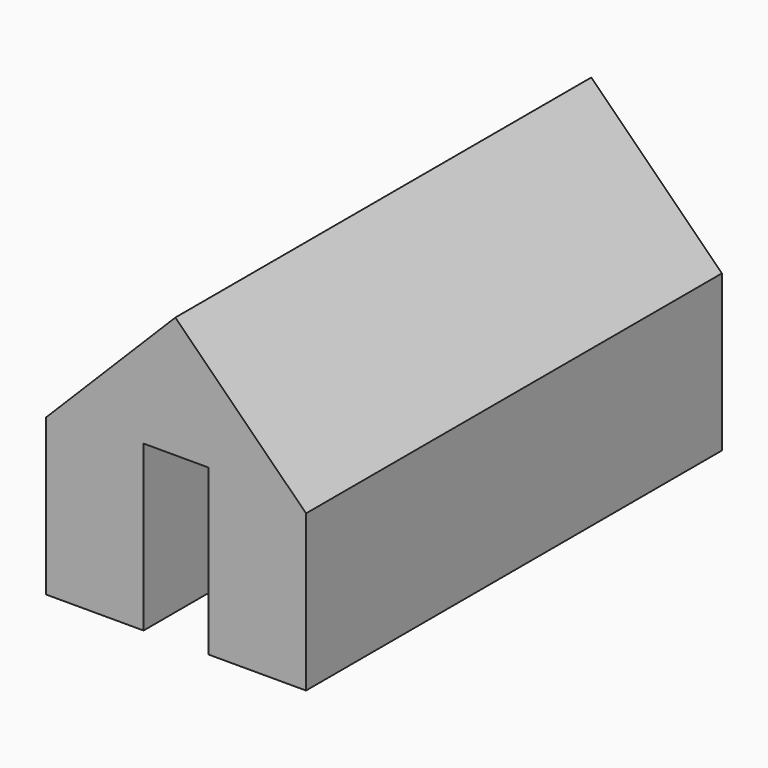
from build123d import *

# Parameters (mm, degrees)
F0_W     = 1143
F0_H     = 1828.8
F1_DEPTH = 6096


with BuildPart() as f1:
    # F0 (on Front) → F1 (new body)
    with BuildSketch(Plane.XZ):
        with Locations((-944.678062, -52.685231)):
            Rectangle(F0_W, F0_H)
        with Locations((960.321938, -52.685231)):
            Rectangle(F0_W, F0_H)
        Polygon((0, 2385.714769), (-1516.178062, 861.714769), (-373.178062, 861.714769), (-373.178062, 963.314769), (0, 963.314769), align=None)
        Polygon((1531.821938, 861.714769), (0, 2385.714769), (0, 963.314769), (7.821938, 963.314769), (388.821938, 963.314769), (388.821938, 861.714769), align=None)
    extrude(amount=F1_DEPTH)


solid = f1.part
